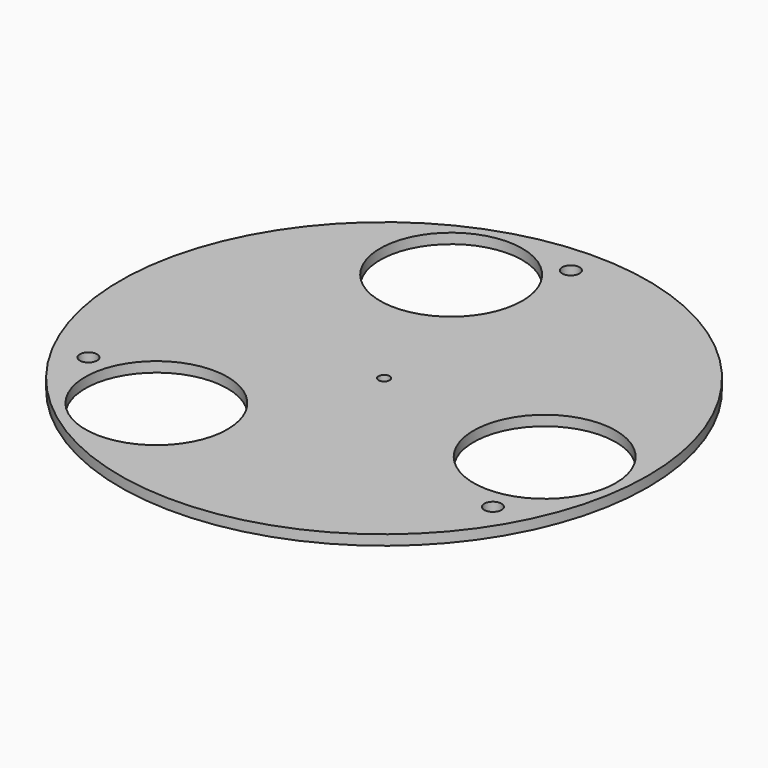
from build123d import *

# Parameters (mm, degrees)
F0_R     = 130
F1_DEPTH = 5
F2_R     = 2.75
F2_R_2   = 4.25
F3_DEPTH = 5.001
F4_R     = 35
F5_DEPTH = 5.001


with BuildPart() as f1:
    # F0 (on Top) → F1 (new body)
    with BuildSketch(Plane.XY):
        Circle(F0_R)
    extrude(amount=F1_DEPTH)

    # F2 (on face) → F3 (cut, through all)
    with BuildSketch(Plane.XY.offset(5)):
        Circle(F2_R)
        with Locations((0, 115)):
            Circle(F2_R_2)
        with Locations((-99.592921, -57.5)):
            Circle(F2_R_2)
        with Locations((99.592921, -57.5)):
            Circle(F2_R_2)
    extrude(amount=-F3_DEPTH, mode=Mode.SUBTRACT)

    # F4 (on face) → F5 (cut, through all)
    with BuildSketch(Plane.XY.offset(5)):
        with Locations((-33.714593, 83.446547)):
            Circle(F4_R)
        with Locations((89.124126, -12.525579)):
            Circle(F4_R)
        with Locations((-55.409533, -70.920968)):
            Circle(F4_R)
    extrude(amount=-F5_DEPTH, mode=Mode.SUBTRACT)


solid = f1.part
